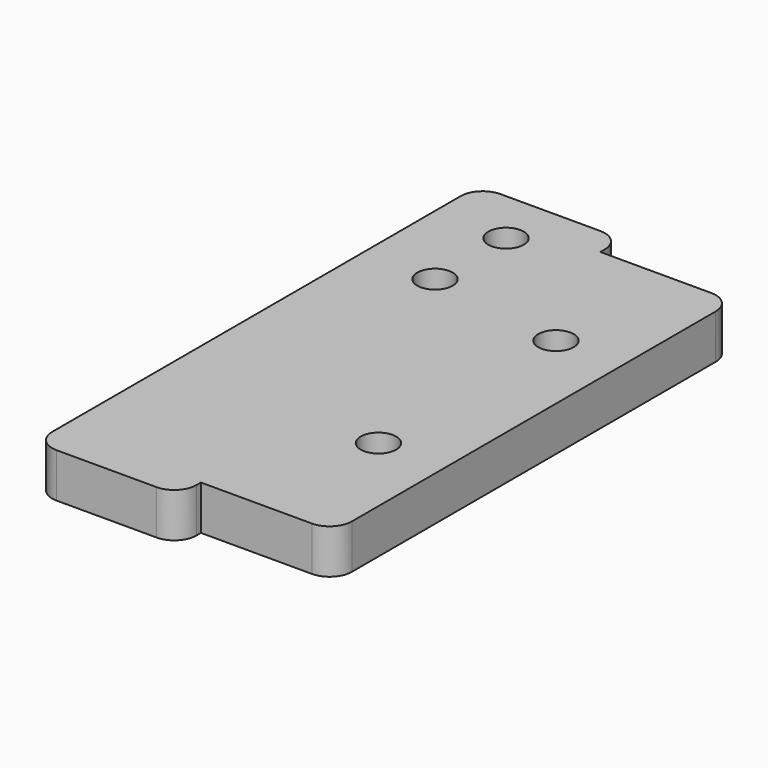
from build123d import *

# Parameters (mm, degrees)
SKETCH_R  = 1.6
PAD_DEPTH = 4
FILLET_R  = 2


with BuildPart() as part:
    # Sketch → Pad (new body)
    with BuildSketch(Plane.XY):
        Polygon((0, 22.5), (12, 22.5), (12, -22.5), (0, -22.5), (0, -25), (-13, -25), (-13, 25), (0, 25), align=None)
        with Locations((6, 10)):
            Circle(SKETCH_R, mode=Mode.SUBTRACT)
        with Locations((6, -10)):
            Circle(SKETCH_R, mode=Mode.SUBTRACT)
        with Locations((-6.5, 20)):
            Circle(SKETCH_R, mode=Mode.SUBTRACT)
        with Locations((-6.5, 12)):
            Circle(SKETCH_R, mode=Mode.SUBTRACT)
    extrude(amount=PAD_DEPTH)

    # Fillet
    fillet_edges = [part.edges().sort_by_distance(p)[0] for p in [
        (12, 22.5, 2),
        (0, 25, 2),
        (-13, 25, 2),
        (-13, -25, 2),
        (0, -25, 2),
        (12, -22.5, 2),
    ]]
    fillet(fillet_edges, radius=FILLET_R)


solid = part.part
